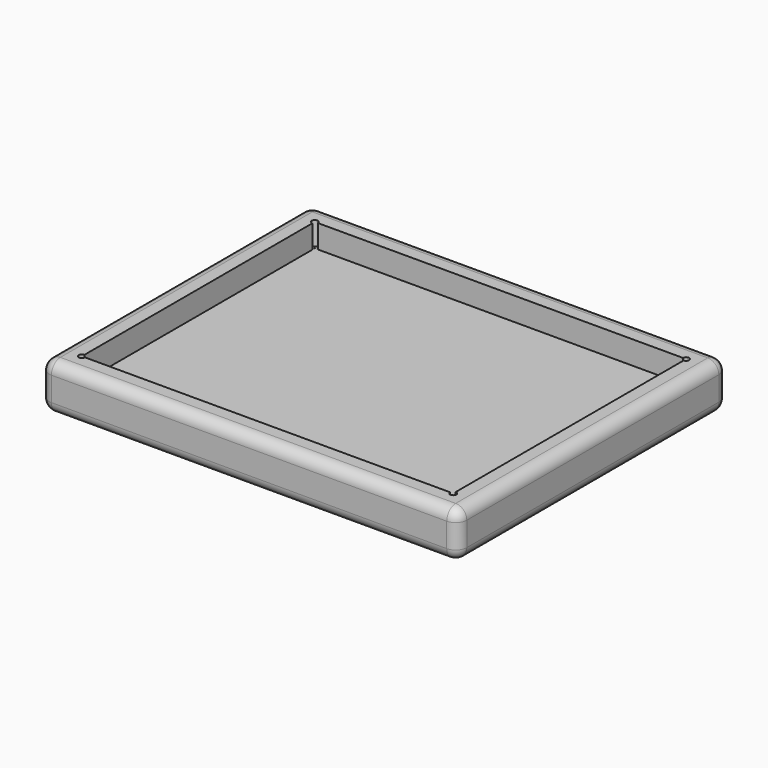
from build123d import *

# Parameters (mm, degrees)
F0_W     = 85.725
F0_H     = 69.2404
F1_DEPTH = 9.525
F2_T     = -4.7498
F3_R     = 0.635
F4_DEPTH = 4.7625
F5_R     = 2.286


with BuildPart() as f1:
    # F0 (on Top) → F1 (new body)
    with BuildSketch(Plane.XY):
        Rectangle(F0_W, F0_H)
    extrude(amount=F1_DEPTH)

    # F2
    f2_openings = [f1.faces().sort_by_distance(p)[0] for p in [
        (0, 0, 9.525),
    ]]
    offset(amount=F2_T, openings=f2_openings)

    # F3 (on face) → F4 (cut)
    with BuildSketch(Plane.XY.offset(9.525)):
        with Locations((-38.1127, 29.8704)):
            Circle(F3_R)
        with Locations((38.1127, 29.8704)):
            Circle(F3_R)
        with Locations((38.1127, -29.8704)):
            Circle(F3_R)
        with Locations((-38.1127, -29.8704)):
            Circle(F3_R)
    extrude(amount=-F4_DEPTH, mode=Mode.SUBTRACT)

    # F5
    f5_edges = [f1.edges().sort_by_distance(p)[0] for p in [
        (0, -34.6202, 9.525),
        (-42.8625, -34.6202, 4.7625),
        (-42.8625, 0, 0),
        (-42.8625, 0, 9.525),
        (0, -34.6202, 0),
        (42.8625, -34.6202, 4.7625),
        (-42.8625, 34.6202, 4.7625),
        (0, 34.6202, 9.525),
        (0, 34.6202, 0),
        (42.8625, 34.6202, 4.7625),
        (42.8625, 0, 9.525),
        (42.8625, 0, 0),
    ]]
    fillet(f5_edges, radius=F5_R)


solid = f1.part
